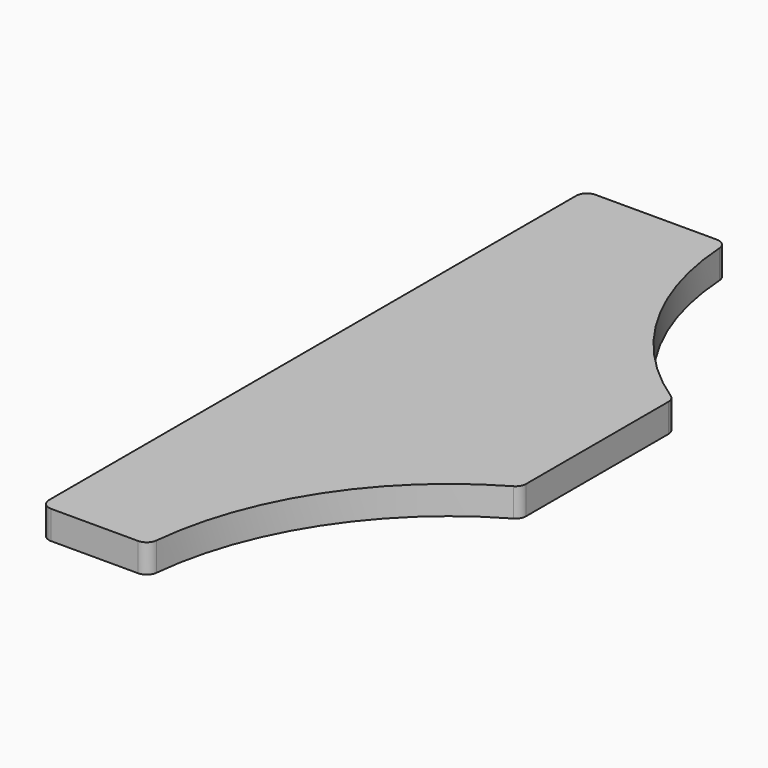
from build123d import *

# Parameters (mm, degrees)
F1_DEPTH = 4


with BuildPart() as f1:
    # F0 (on Top) → F1 (new body)
    with BuildSketch(Plane.XY):
        with BuildLine():
            ThreePointArc((37.784861, 62.826825), (25.290447, 76.132657), (20.008331, 93.604199))
            ThreePointArc((20.008331, 93.604199), (19.537852, 94.602902), (18.511345, 95.009154))
            Line((18.511345, 95.009154), (1.443904, 95.009154))
            ThreePointArc((1.443904, 95.009154), (0.383244, 94.569814), (-0.056096, 93.509154))
            Line((-0.056096, 93.509154), (-0.056096, 0.874244))
            ThreePointArc((-0.056096, 0.874244), (0.383244, -0.186416), (1.443904, -0.625756))
            Line((1.443904, -0.625756), (13.669709, -0.625756))
            ThreePointArc((13.669709, -0.625756), (14.674911, -0.239115), (15.161911, 0.721486))
            ThreePointArc((15.161911, 0.721486), (22.238708, 20.725746), (37.695575, 35.263173))
            ThreePointArc((37.695575, 35.263173), (38.250956, 35.812874), (38.454495, 36.567321))
            Line((38.454495, 36.567321), (38.454495, 61.577629))
            ThreePointArc((38.454495, 61.577629), (38.27653, 62.286308), (37.784861, 62.826825))
        make_face()
    extrude(amount=F1_DEPTH)


solid = f1.part
